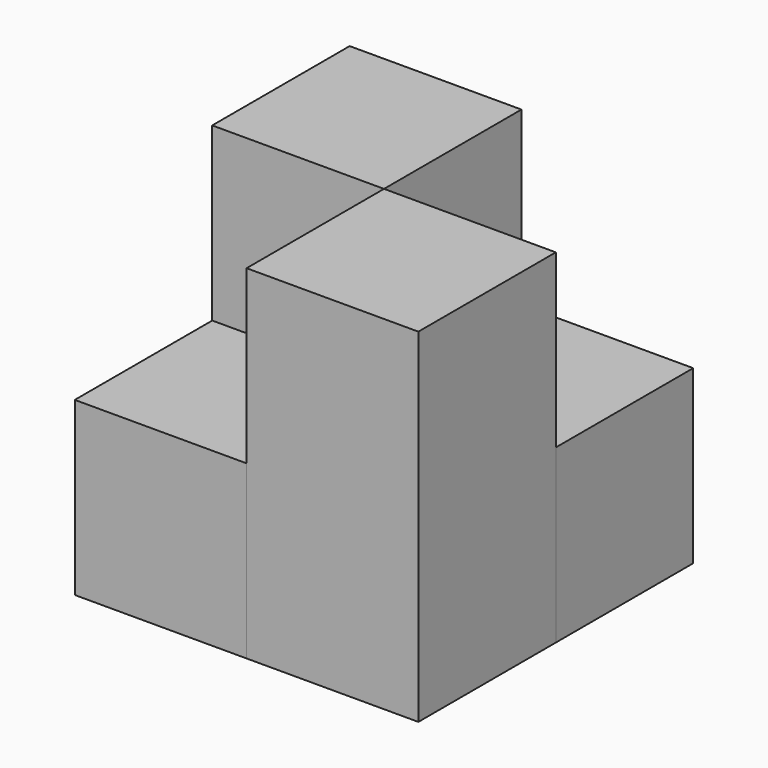
from build123d import *

# Parameters (mm, degrees)
F0_W     = 19.05
F0_H     = 19.05
F1_DEPTH = 19.05
F2_DEPTH = 38.1


with BuildPart() as f1:
    # F0 (on Top) → F1 (new body)
    with BuildSketch(Plane.XY):
        with Locations((7.677842, 23.527792)):
            Rectangle(F0_W, F0_H)
        with Locations((-11.372158, 4.477792)):
            Rectangle(F0_W, F0_H)
    extrude(amount=F1_DEPTH)


with BuildPart() as f2:
    # F0 (on Top) → F2 (new body)
    with BuildSketch(Plane.XY):
        with Locations((-11.372158, 23.527792)):
            Rectangle(F0_W, F0_H)
        with Locations((7.677842, 4.477792)):
            Rectangle(F0_W, F0_H)
    extrude(amount=F2_DEPTH)


solid = Compound([f1.part, f2.part])
